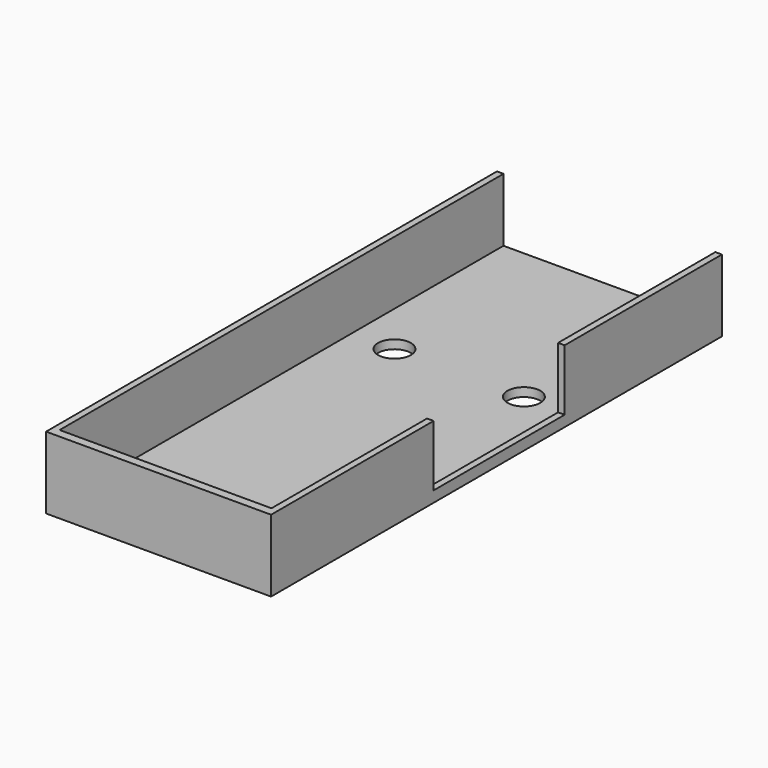
from build123d import *

# Parameters (mm, degrees)
SKETCH_W        = 41.2
SKETCH_H        = 101.6
PAD_DEPTH       = 1.6
SKETCH001_W     = 1.2
SKETCH001_H     = 101.6
PAD001_DEPTH    = 11.6
SKETCH002_W     = 41.2
SKETCH002_H     = 13.2
PAD002_DEPTH    = 1.6
SKETCH003_W     = 30
SKETCH003_H     = 11.2
POCKET_DEPTH    = 1.2
SKETCH004_R     = 3
POCKET001_DEPTH = 1.6


with BuildPart() as part:
    # Sketch → Pad (new body)
    with BuildSketch(Plane.XY):
        with Locations((20.6, -50.8)):
            Rectangle(SKETCH_W, SKETCH_H)
    extrude(amount=PAD_DEPTH)

    # Sketch001 → Pad001 (new body)
    with BuildSketch(Plane.XY.offset(1.6)):
        with Locations((0.6, -50.8)):
            Rectangle(SKETCH001_W, SKETCH001_H)
        with Locations((40.6, -50.8)):
            Rectangle(SKETCH001_W, SKETCH001_H)
    extrude(amount=PAD001_DEPTH)

    # Sketch002 → Pad002 (new body)
    with BuildSketch(Plane.XZ.offset(101.6)):
        with Locations((20.6, 6.6)):
            Rectangle(SKETCH002_W, SKETCH002_H)
    extrude(amount=PAD002_DEPTH)

    # Sketch003 → Pocket (cut)
    with BuildSketch(Plane.YZ.offset(41.2)):
        with Locations((-51, 7.6)):
            Rectangle(SKETCH003_W, SKETCH003_H)
    extrude(amount=-POCKET_DEPTH, mode=Mode.SUBTRACT)

    # Sketch004 → Pocket001 (cut)
    with BuildSketch(Plane(origin=(0, 0, 0), x_dir=(1, 0, 0), z_dir=(0, 0, -1))):
        with Locations((32.7, 94.2)):
            Circle(SKETCH004_R)
        with Locations((9, 34.7)):
            Circle(SKETCH004_R)
        with Locations((32.7, 34.7)):
            Circle(SKETCH004_R)
    extrude(amount=-POCKET001_DEPTH, mode=Mode.SUBTRACT)


solid = part.part
